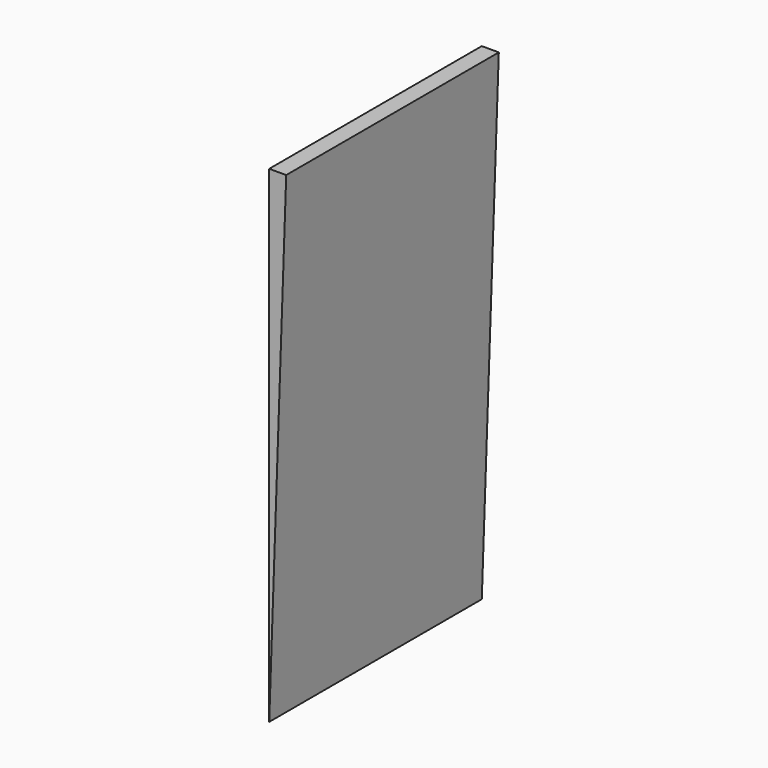
from build123d import *

# Parameters (mm, degrees)
BOX026_W               = 5
BOX026_H               = 10.15
BOX026_DEPTH           = 21.6
BOX026_PLACEMENT_ANGLE = 2
BOX027_W               = 5
BOX027_H               = 10.15
BOX027_DEPTH           = 18.6


with BuildPart() as cube026:
    # Box026 → Box026 (new body)
    with BuildSketch(Plane.XY):
        with Locations((2.5, 5.075)):
            Rectangle(BOX026_W, BOX026_H)
    extrude(amount=BOX026_DEPTH)


with BuildPart() as cube026_1:
    # Box026 placement: moved
    add(cube026.part.moved(Location((-17.02, 46.38, 0))).rotate(Axis((-17.02, 46.38, 0), (0, 1, 0)), BOX026_PLACEMENT_ANGLE))


with BuildPart() as filament_sensor_angle:
    # Box027 → Box027 (new body)
    with BuildSketch(Plane(origin=(-17.02, 46.38, 0), x_dir=(1, 0, 0), z_dir=(0, 0, 1))):
        with Locations((2.5, 5.075)):
            Rectangle(BOX027_W, BOX027_H)
    extrude(amount=BOX027_DEPTH)

    # Cut001012003011002008006006009002: cut Cube026
    add(cube026_1.part, mode=Mode.SUBTRACT)


with BuildPart() as filament_sensor_angle_1:
    # Cut001012003011002008006006009002 placement: moved
    add(filament_sensor_angle.part.moved(Location((0, -8.4, 0))))


solid = filament_sensor_angle_1.part
